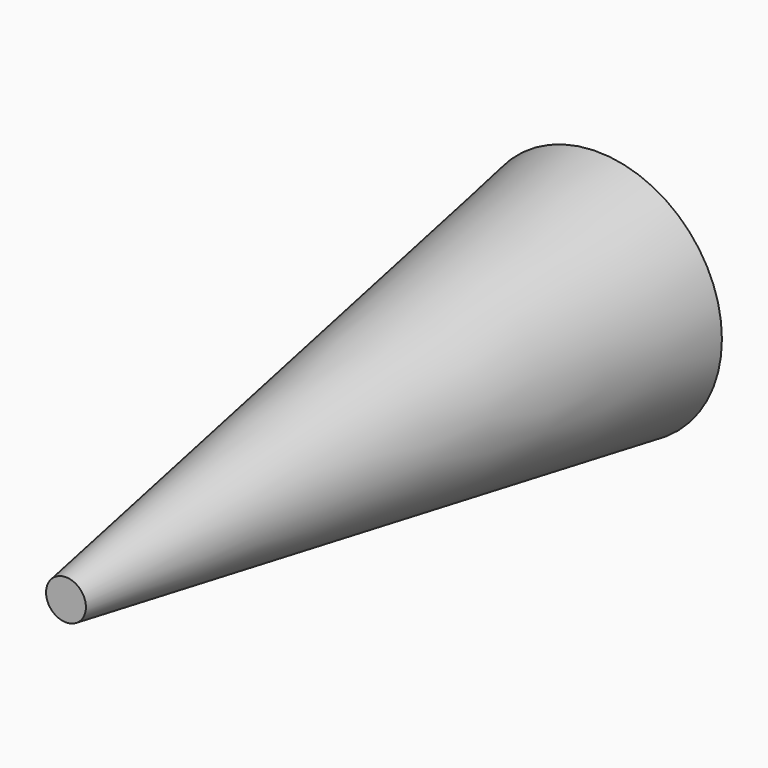
from build123d import *

# Parameters (mm, degrees)
F0_R = 9.525
F2_R = 1.524


with BuildPart() as f3:
    # F0 (on Front) → F3 section 0
    with BuildSketch(Plane.XZ):
        Circle(F0_R)
    # F2 (on offset) → F3 section 1
    with BuildSketch(Plane.XZ.offset(50.8)):
        Circle(F2_R)
    loft()


solid = f3.part
